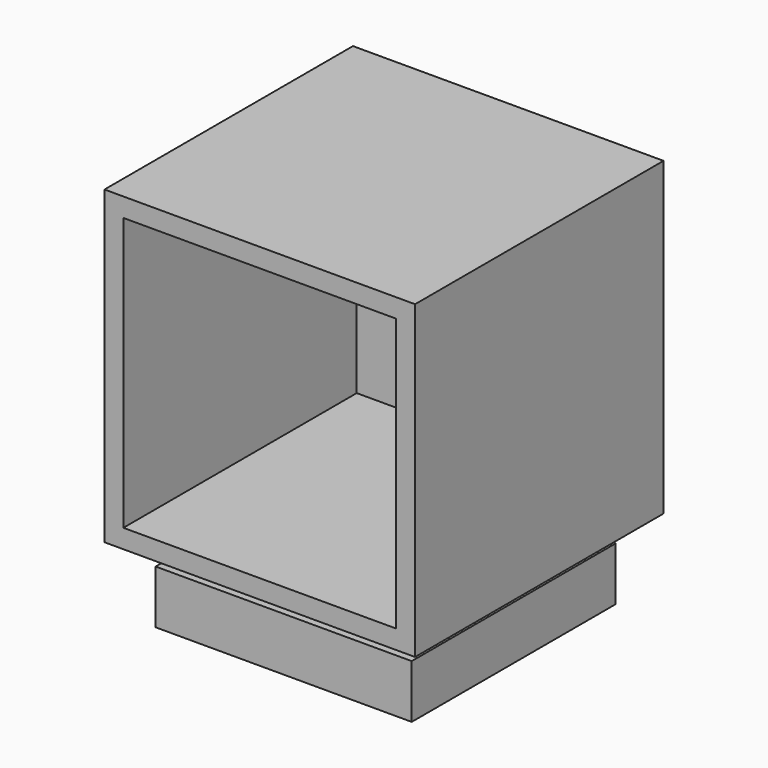
from build123d import *

# Parameters (mm, degrees)
F0_W     = 50.1142
F0_H     = 50.1142
F1_DEPTH = 50.1142
F2_T     = -3.048
F3_W     = 31.75
F3_H     = 3.7164964166
F4_DEPTH = 15.748
F5_DEPTH = 20.6629


with BuildPart() as f1:
    # F0 (on Front) → F1 (new body)
    with BuildSketch(Plane.XZ):
        with Locations((-0.1968266442, 5.5663594662)):
            Rectangle(F0_W, F0_H)
        with Locations((-0.1968266442, 5.5663594662)):
            Rectangle(F0_W, F0_H)
    extrude(amount=F1_DEPTH)

    # F2
    f2_openings = [f1.faces().sort_by_distance(p)[0] for p in [
        (-0.196827, -50.1142, 5.566359),
    ]]
    offset(amount=F2_T, openings=f2_openings)


with BuildPart() as f4:
    # F3 (on Right) → F4 (new body, symmetric)
    with BuildSketch(Plane.YZ):
        with Locations((-25.0952, -21.4424923255)):
            Rectangle(F3_W, F3_H)
    extrude(amount=F4_DEPTH, both=True)

    # F3 (on Right) → F5 (join, symmetric)
    with BuildSketch(Plane.YZ):
        Polygon((-9.2202, -23.3007405338), (-40.9702, -23.3007405338), (-45.5422, -23.3007405338), (-45.5422, -31.9367405338), (-4.3942, -31.9367405338), (-4.3942, -23.3007405338), align=None)
    extrude(amount=F5_DEPTH, both=True)


solid = Compound([f1.part, f4.part])
